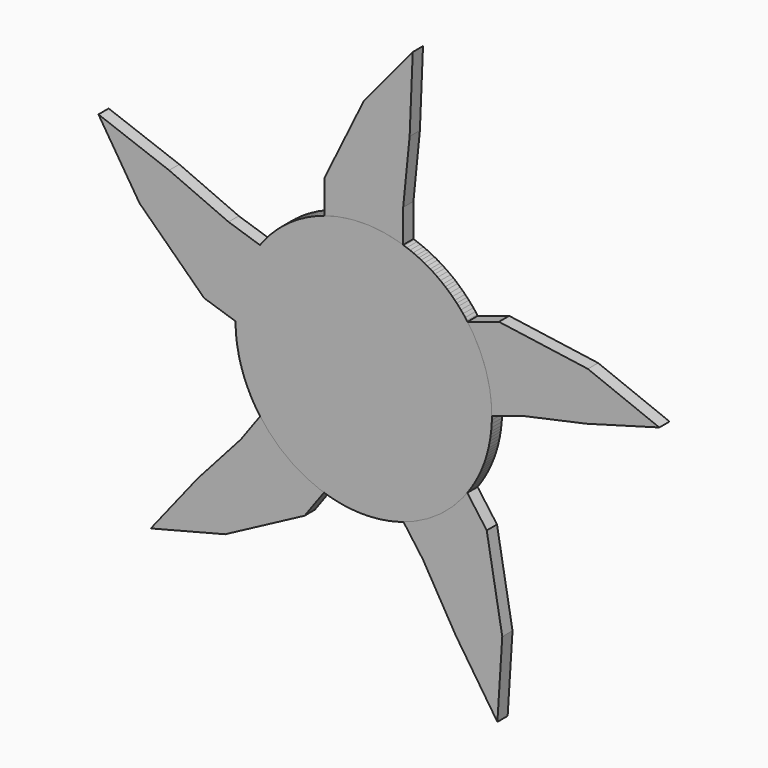
from build123d import *

# Parameters (mm, degrees)
F0_R     = 12.7
F1_DEPTH = 0.635
F2_W     = 7.815492
F2_H     = 5.961056
F3_DEPTH = 0.635
F4_COUNT = 5


with BuildPart() as f1:
    # F0 (on Front) → F1 (new body, symmetric)
    with BuildSketch(Plane.XZ):
        Circle(F0_R)
    extrude(amount=F1_DEPTH, both=True)

    # F2 (on Front) → F3 (join, symmetric)
    with BuildSketch(Plane.XZ):
        with Locations((0, 12.379177)):
            Rectangle(F2_W, F2_H)
        Polygon((-3.907746, 15.359705), (3.907746, 15.359705), (4.549023, 21.755937), (0, 23.355249), align=None)
        Polygon((0, 23.355249), (4.549023, 21.755937), (4.856857, 29.218012), align=None)
    extrude(amount=F3_DEPTH, both=True)


with BuildPart() as f4_1:
    # F4: instance of F1
    add(f1.part.rotate(Axis((0, -0.635, 0), (0, 1, 0)), 1 * 360 / F4_COUNT))


with BuildPart() as f4_2:
    # F4: instance of F1
    add(f1.part.rotate(Axis((0, -0.635, 0), (0, 1, 0)), 2 * 360 / F4_COUNT))


with BuildPart() as f4_3:
    # F4: instance of F1
    add(f1.part.rotate(Axis((0, -0.635, 0), (0, 1, 0)), 3 * 360 / F4_COUNT))


with BuildPart() as f4_4:
    # F4: instance of F1
    add(f1.part.rotate(Axis((0, -0.635, 0), (0, 1, 0)), 4 * 360 / F4_COUNT))


solid = Compound([f1.part, f4_1.part, f4_2.part, f4_3.part, f4_4.part])
